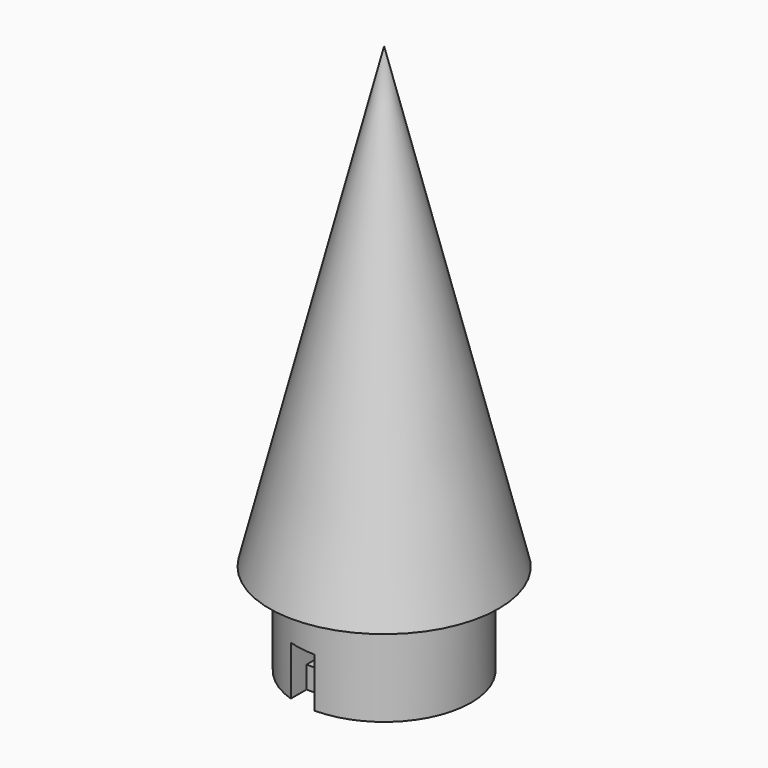
from build123d import *

# Parameters (mm, degrees)
F2_R     = 12.065
F3_DEPTH = 12.7
F4_W     = 3.766847
F4_H     = 8.072342
F5_DEPTH = 12.7
F6_W     = 3.766847
F6_H     = 3.006206
F7_DEPTH = 3.048


with BuildPart() as f1:
    # F0 (on Front) → F1 (revolve)
    with BuildSketch(Plane.XZ):
        Polygon((0, 63.5), (0, 0), (15.875, 0), align=None)
    revolve(axis=Axis((0, 0, 31.75), (0, 0, 1)))

    # F2 (on face) → F3 (join)
    with BuildSketch(Plane(origin=(0, 0, 0), x_dir=(1, 0, 0), z_dir=(0, 0, -1))):
        Circle(F2_R)
    extrude(amount=F3_DEPTH)

    # F4 (on Front) → F5 (cut)
    with BuildSketch(Plane.XZ):
        with Locations((-1.883423, -9.887242)):
            Rectangle(F4_W, F4_H)
    extrude(amount=F5_DEPTH, mode=Mode.SUBTRACT)

    # F6 (on face) → F7 (join)
    with BuildSketch(Plane(origin=(0, 0, -12.7), x_dir=(1, 0, 0), z_dir=(0, 0, -1))):
        with Locations((-1.883423, 7.234052)):
            Rectangle(F6_W, F6_H)
    extrude(amount=-F7_DEPTH)


solid = f1.part
